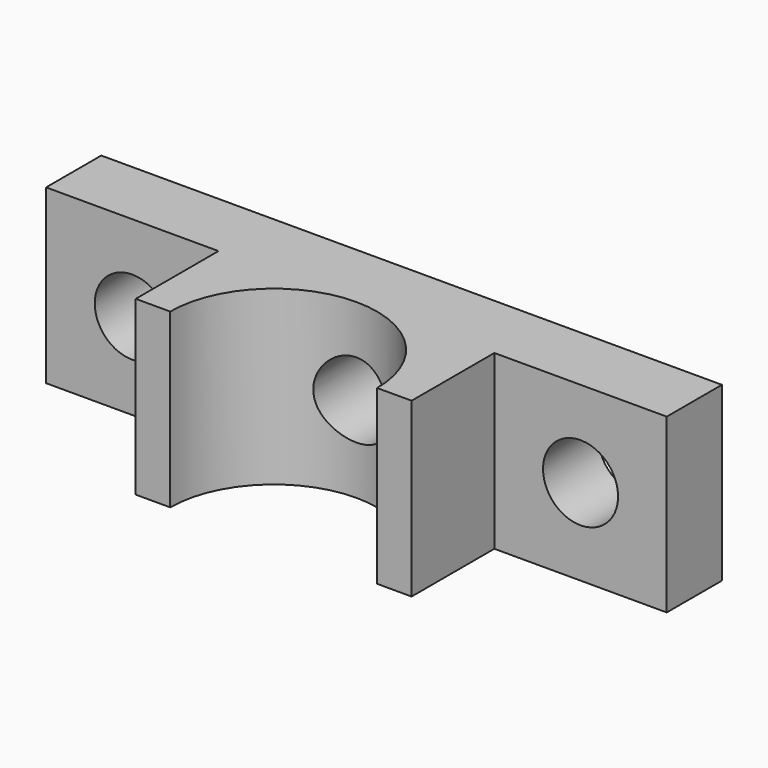
from build123d import *

# Parameters (mm, degrees)
F1_DEPTH = 7.9375
F2_R     = 1.7272
F3_DEPTH = 7.9375


with BuildPart() as f1:
    # F0 (on Top) → F1 (new body)
    with BuildSketch(Plane.XY):
        with BuildLine():
            ThreePointArc((0, 0), (4.7625, 4.7625), (9.525, 0))
            Line((9.525, 0), (11.1125, 0))
            Line((11.1125, 0), (11.1125, 4.7625))
            Line((11.1125, 4.7625), (19.05, 4.7625))
            Line((19.05, 4.7625), (19.05, 7.9375))
            Line((19.05, 7.9375), (-9.525, 7.9375))
            Line((-9.525, 7.9375), (-9.525, 4.7625))
            Line((-9.525, 4.7625), (-1.5875, 4.7625))
            Line((-1.5875, 4.7625), (-1.5875, 0))
            Line((-1.5875, 0), (0, 0))
        make_face()
    extrude(amount=F1_DEPTH)

    # F2 (on face) → F3 (cut, through all)
    with BuildSketch(Plane(origin=(0, 7.9375, 0), x_dir=(-1, 0, 0), z_dir=(0, 1, 0))):
        with Locations((5.55625, 3.96875)):
            Circle(F2_R)
        with Locations((-15.08125, 3.96875)):
            Circle(F2_R)
        with Locations((-4.7625, 3.96875)):
            Circle(F2_R)
    extrude(amount=-F3_DEPTH, mode=Mode.SUBTRACT)


solid = f1.part
